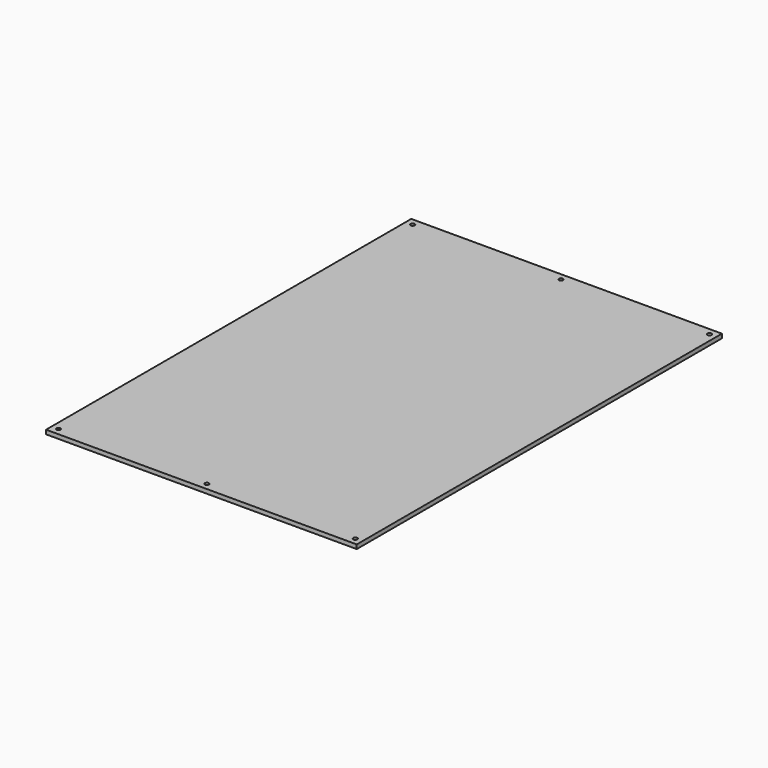
from build123d import *

# Parameters (mm, degrees)
F0_W     = 450
F0_H     = 661.2
F0_R     = 3
F1_DEPTH = 6


with BuildPart() as f1:
    # F0 (on Top) → F1 (new body)
    with BuildSketch(Plane.XY):
        with Locations((-15.585196, 14.733077)):
            Rectangle(F0_W, F0_H)
        with Locations((-230.585196, -305.866923)):
            Circle(F0_R, mode=Mode.SUBTRACT)
        with Locations((-15.585196, -305.866923)):
            Circle(F0_R, mode=Mode.SUBTRACT)
        with Locations((199.414804, -305.866923)):
            Circle(F0_R, mode=Mode.SUBTRACT)
        with Locations((-230.585196, 335.333077)):
            Circle(F0_R, mode=Mode.SUBTRACT)
        with Locations((-15.585196, 335.333077)):
            Circle(F0_R, mode=Mode.SUBTRACT)
        with Locations((199.414804, 335.333077)):
            Circle(F0_R, mode=Mode.SUBTRACT)
    extrude(amount=F1_DEPTH)


solid = f1.part
